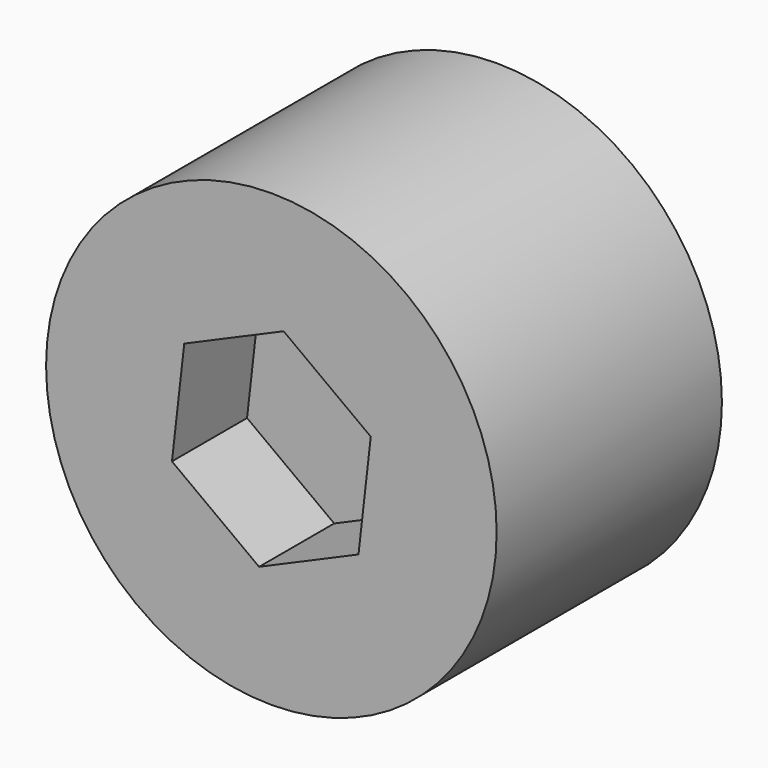
from build123d import *

# Parameters (mm, degrees)
F0_R     = 12
F1_DEPTH = 15
F3_DEPTH = 5
F5_DEPTH = 5


with BuildPart() as f1:
    # F0 (on Front) → F1 (new body)
    with BuildSketch(Plane.XZ):
        Circle(F0_R)
    extrude(amount=F1_DEPTH)

    # F2 (on face) → F3 (cut)
    with BuildSketch(Plane.XZ.offset(15)):
        Polygon((5.294932, 2.301527), (0.654286, 5.736309), (-4.640647, 3.434783), (-5.294932, -2.301527), (-0.654286, -5.736309), (4.640647, -3.434783), align=None)
    extrude(amount=-F3_DEPTH, mode=Mode.SUBTRACT)

    # F4 (on face) → F5 (cut)
    with BuildSketch(Plane(origin=(0, 0, 0), x_dir=(-1, 0, 0), z_dir=(0, 1, 0))):
        Polygon((6.274529, 5.095451), (-1.275526, 7.981627), (-7.550054, 2.886176), (-6.274529, -5.095451), (1.275526, -7.981627), (7.550054, -2.886176), align=None)
    extrude(amount=-F5_DEPTH, mode=Mode.SUBTRACT)


solid = f1.part
